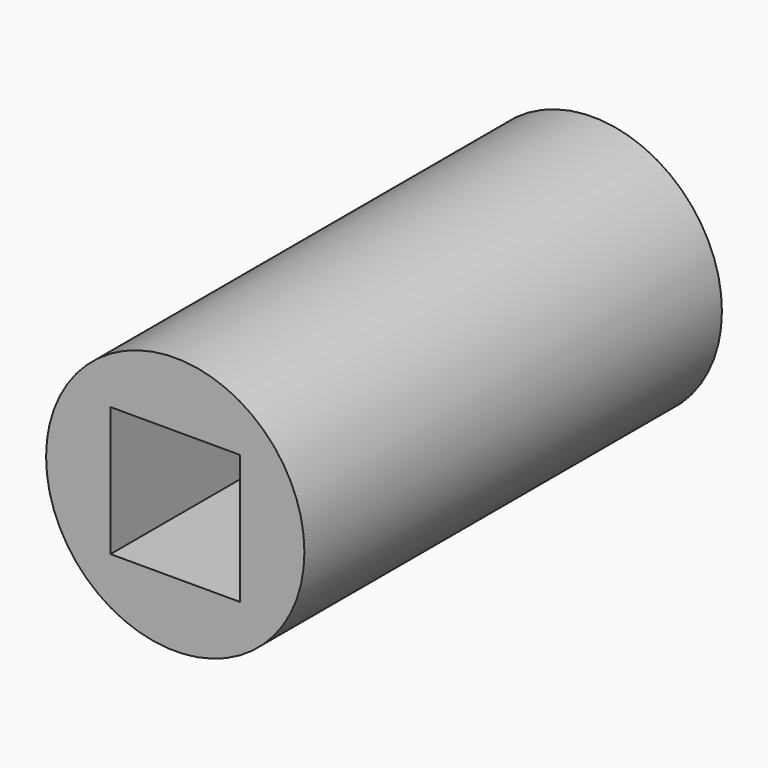
from build123d import *

# Parameters (mm, degrees)
F0_R     = 6.2865
F0_W     = 6.2992
F0_H     = 6.2992
F1_DEPTH = 25.4


with BuildPart() as f1:
    # F0 (on Front) → F1 (new body)
    with BuildSketch(Plane.XZ):
        Circle(F0_R)
        Rectangle(F0_W, F0_H, mode=Mode.SUBTRACT)
    extrude(amount=F1_DEPTH)


solid = f1.part
